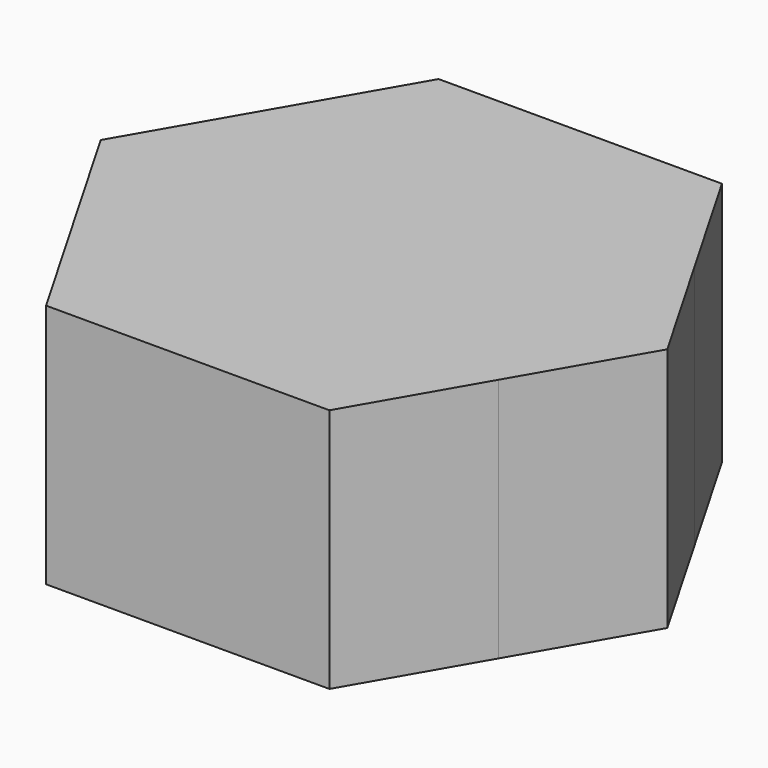
from build123d import *

# Parameters (mm, degrees)
F1_R     = 7.5
F1_R_2   = 7.2
F1_W     = 8
F1_H     = 3
F2_DEPTH = 10
F3_DEPTH = 8
F4_DEPTH = 7.7
F5_DEPTH = 5


with BuildPart() as f2:
    # F1 (on Top) → F2 (new body)
    with BuildSketch(Plane.XY):
        with BuildLine():
            ThreePointArc((8.6602540063, -5.0000000546), (9.6592582547, -2.5881904815), (10, 0))
            ThreePointArc((10, 0), (9.6592582702, 2.5881904239), (8.660254066, 4.9999999513))
            ThreePointArc((8.660254066, 4.9999999513), (5.0000000244, 8.6602540238), (0, 10))
            ThreePointArc((0, 10), (-4.9999999727, 8.6602540536), (-8.6602540063, 5.0000000546))
            ThreePointArc((-8.6602540063, 5.0000000546), (-10, 1.587e-07), (-8.660254165, -4.9999997797))
            ThreePointArc((-8.660254165, -4.9999997797), (-5.0000001101, -8.6602539743), (0, -10))
            ThreePointArc((0, -10), (4.9999999727, -8.6602540536), (8.6602540063, -5.0000000546))
        make_face()
        Circle(F1_R, mode=Mode.SUBTRACT)
        Circle(F1_R)
        Circle(F1_R_2, mode=Mode.SUBTRACT)
        Circle(F1_R_2)
        Rectangle(F1_W, F1_H, mode=Mode.SUBTRACT)
        Rectangle(F1_W, F1_H)
        with BuildLine():
            ThreePointArc((-8.6602540063, 5.0000000546), (-4.9999999727, 8.6602540536), (0, 10))
            Line((0, 10), (-5.7735026919, 10))
            Line((-5.7735026919, 10), (-8.6602540063, 5.0000000546))
        make_face()
        with BuildLine():
            ThreePointArc((0, 10), (5.0000000244, 8.6602540238), (8.660254066, 4.9999999513))
            Line((8.660254066, 4.9999999513), (5.7735026919, 10))
            Line((5.7735026919, 10), (0, 10))
        make_face()
        with BuildLine():
            ThreePointArc((8.660254066, 4.9999999513), (9.6592582702, 2.5881904239), (10, 0))
            ThreePointArc((10, 0), (9.6592582547, -2.5881904815), (8.6602540063, -5.0000000546))
            Line((8.6602540063, -5.0000000546), (11.5470053838, 0))
            Line((11.5470053838, 0), (8.660254066, 4.9999999513))
        make_face()
        with BuildLine():
            Line((5.7735026919, -10), (8.6602540063, -5.0000000546))
            ThreePointArc((8.6602540063, -5.0000000546), (4.9999999727, -8.6602540536), (0, -10))
            Line((0, -10), (5.7735026919, -10))
        make_face()
        with BuildLine():
            Line((-5.7735026919, -10), (0, -10))
            ThreePointArc((0, -10), (-5.0000001101, -8.6602539743), (-8.660254165, -4.9999997797))
            Line((-8.660254165, -4.9999997797), (-5.7735026919, -10))
        make_face()
        with BuildLine():
            ThreePointArc((-8.660254165, -4.9999997797), (-10, 1.587e-07), (-8.6602540063, 5.0000000546))
            Line((-8.6602540063, 5.0000000546), (-11.5470053838, 0))
            Line((-11.5470053838, 0), (-8.660254165, -4.9999997797))
        make_face()
    extrude(amount=F2_DEPTH)

    # F1 (on Top) → F3 (cut)
    with BuildSketch(Plane.XY):
        Circle(F1_R)
        Circle(F1_R_2, mode=Mode.SUBTRACT)
        Circle(F1_R_2)
        Rectangle(F1_W, F1_H, mode=Mode.SUBTRACT)
        Rectangle(F1_W, F1_H)
    extrude(amount=F3_DEPTH, mode=Mode.SUBTRACT)


with BuildPart() as f4:
    # F1 (on Top) → F4 (new body)
    with BuildSketch(Plane.XY):
        Circle(F1_R_2)
        Rectangle(F1_W, F1_H, mode=Mode.SUBTRACT)
        Rectangle(F1_W, F1_H)
    extrude(amount=F4_DEPTH)

    # F1 (on Top) → F5 (cut)
    with BuildSketch(Plane.XY):
        Rectangle(F1_W, F1_H)
    extrude(amount=F5_DEPTH, mode=Mode.SUBTRACT)


solid = Compound([f2.part, f4.part])
